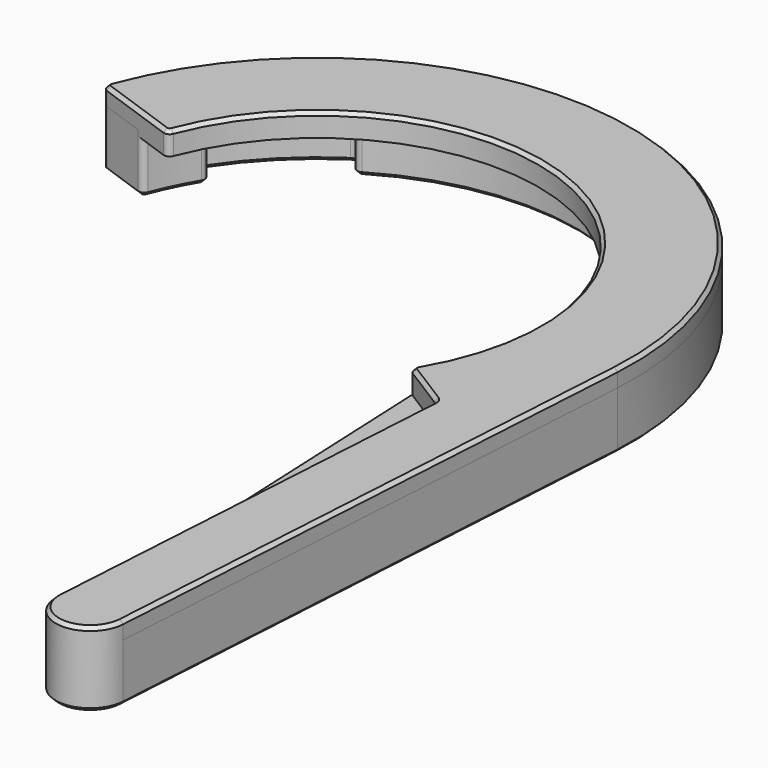
from build123d import *

# Parameters (mm, degrees)
PAD_DEPTH    = 10
FILLET_R     = 1
PAD001_DEPTH = 4
CHAMFER_SIZE = 0.6


with BuildPart() as part:
    # Sketch → Pad (new body)
    with BuildSketch(Plane.XY):
        with BuildLine():
            ThreePointArc((-26.082282, 41.481497), (-34.648232, 34.648232), (-41.481497, 26.082282))
            Line((-41.481497, 26.082282), (-38.095252, 23.953116))
            ThreePointArc((-38.095252, 23.953116), (-40.520823, 19.571993), (-42.444584, 14.948489))
            Line((-42.444584, 14.948489), (-51.876713, 18.270375))
            ThreePointArc((54.8969, -3.366056), (10.923103, 53.904414), (-51.876713, 18.270375))
            Line((54.8969, -3.366056), (48.776799, -103.178602))
            ThreePointArc((36.799293, -102.44419), (42.42084, -108.800149), (48.776799, -103.178602))
            Line((41.481497, -26.082282), (36.799293, -102.44419))
            Line((38.095252, -23.953116), (41.481497, -26.082282))
            ThreePointArc((38.095252, -23.953116), (45, 0), (38.095252, 23.953116))
            Line((38.095252, 23.953116), (41.481497, 26.082282))
            ThreePointArc((41.481497, 26.082282), (34.648232, 34.648232), (26.082282, 41.481497))
            Line((26.082282, 41.481497), (23.953116, 38.095252))
            ThreePointArc((23.953116, 38.095252), (0, 45), (-23.953116, 38.095252))
            Line((-23.953116, 38.095252), (-26.082282, 41.481497))
        make_face()
    extrude(amount=PAD_DEPTH)

    # Fillet
    fillet_edges = [part.edges().sort_by_distance(p)[0] for p in [
        (-42.444584, 14.948489, 5),
        (-51.876713, 18.270375, 5),
        (-38.095252, 23.953116, 5),
        (-41.481497, 26.082282, 5),
        (-26.082282, 41.481497, 5),
        (-23.953116, 38.095252, 5),
        (26.082282, 41.481497, 5),
        (41.481497, 26.082282, 5),
        (38.095252, 23.953116, 5),
        (38.095252, -23.953116, 5),
        (41.481497, -26.082282, 5),
    ]]
    fillet(fillet_edges, radius=FILLET_R)

    # Sketch003 (on Face5 of Fillet) → Pad001 (join)
    with BuildSketch(Plane.XY.offset(9)):
        with BuildLine():
            ThreePointArc((33.100974, -19.661524), (16.744927, 34.667815), (-35.978282, 13.704498))
            ThreePointArc((-37.244971, 13.117246), (-36.492174, 13.153216), (-35.978282, 13.704498))
            Line((-37.244971, 13.117246), (-50.924766, 17.935111))
            ThreePointArc((-51.529477, 19.227922), (-51.498385, 18.454633), (-50.924766, 17.935111))
            ThreePointArc((54.896904, -3.36599), (11.421738, 53.800966), (-51.529477, 19.227922))
            Line((48.776799, -103.178602), (54.896904, -3.36599))
            ThreePointArc((36.799293, -102.44419), (42.42084, -108.800149), (48.776799, -103.178602))
            Line((41.445195, -26.674317), (36.799293, -102.44419))
            ThreePointArc((41.445195, -26.674317), (41.336762, -26.156555), (40.979361, -25.766555))
            Line((33.428448, -21.018774), (40.979361, -25.766555))
            ThreePointArc((33.100974, -19.661524), (32.988635, -20.40676), (33.428448, -21.018774))
        make_face()
    extrude(amount=PAD001_DEPTH)

    # Chamfer
    chamfer_edges = [part.edges().sort_by_distance(p)[0] for p in [
        (32.988635, -20.40676, 13),
        (16.744927, 34.667815, 13),
        (-36.492174, 13.153216, 13),
        (-44.084869, 15.526178, 13),
        (-51.498385, 18.454633, 13),
        (11.421738, 53.800966, 13),
        (51.836852, -53.272296, 13),
        (42.42084, -108.800149, 13),
        (39.122244, -64.559254, 13),
        (41.336762, -26.156555, 13),
        (37.203905, -23.392665, 13),
        (45, 0, 0),
        (38.492379, -23.865868, 0),
        (38.492379, 23.865868, 0),
        (39.955986, -25.123088, 0),
        (39.779363, 25.012033, 0),
        (41.336762, -26.156555, 0),
        (41.071083, 26.178953, 0),
        (39.122244, -64.559254, 0),
        (34.648232, 34.648232, 0),
        (42.42084, -108.800149, 0),
        (26.178953, 41.071083, 0),
        (51.83685, -53.272329, 0),
        (24.748781, 39.360684, 0),
        (11.421771, 53.800959, 0),
        (0.489159, 44.997341, 0),
        (-51.498385, 18.454633, 0),
        (-23.865868, 38.492379, 0),
        (-47.151155, 16.606089, 0),
        (-25.012033, 39.779363, 0),
        (-42.623124, 15.313791, 0),
        (-26.178953, 41.071083, 0),
        (-40.520823, 19.571993, 0),
        (-34.648232, 34.648232, 0),
        (-38.492379, 23.865868, 0),
        (-41.071083, 26.178953, 0),
        (-39.779363, 25.012033, 0),
    ]]
    chamfer(chamfer_edges, length=CHAMFER_SIZE)


solid = part.part
